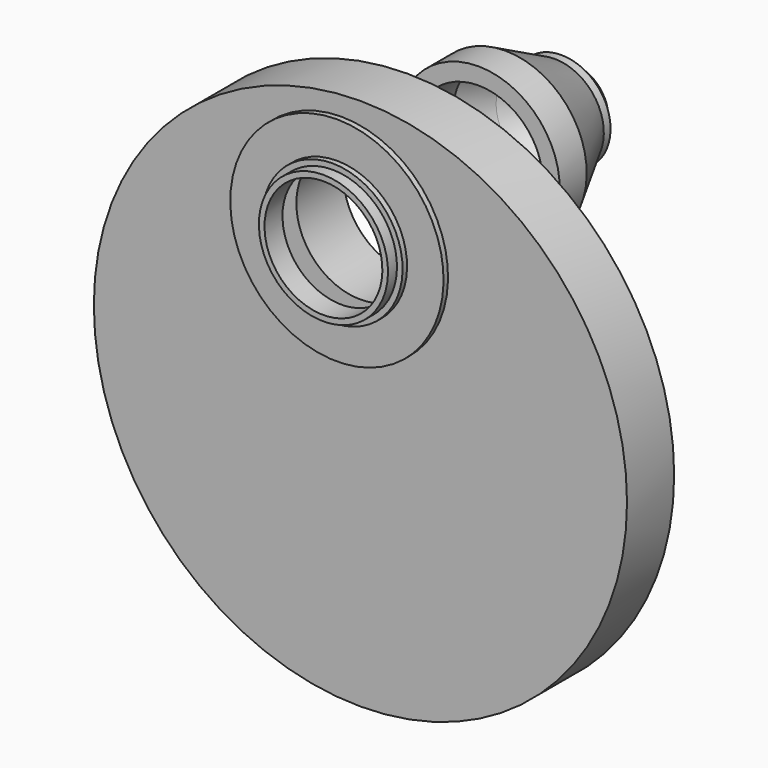
from build123d import *

# Parameters (mm, degrees)
F0_W     = 21
F0_H     = 95
F3_R     = 22.832431
F4_DEPTH = 25


with BuildPart() as f1:
    # F0 (on Right) → F1 (revolve)
    with BuildSketch(Plane.YZ):
        Polygon((-8, 21), (0, 21), (0, 38), (-2, 38), (-2, 25), (-4, 25), (-4, 23), (-8, 23), align=None)
    revolve(axis=Axis((0, -10.295414, 0), (0, 1, 0)))


with BuildPart() as f2:
    # F0 (on Right) → F2 (revolve)
    with BuildSketch(Plane.YZ):
        with Locations((18.974437, -8)):
            Rectangle(F0_W, F0_H)
    revolve(axis=Axis((0, 16.360231, -55.5), (0, 1, 0)))

    # F3 (on face) → F4 (cut)
    with BuildSketch(Plane.XZ.offset(-8.474437)):
        Circle(F3_R)
    extrude(amount=-F4_DEPTH, mode=Mode.SUBTRACT)


with BuildPart() as f5:
    # F0 (on Right) → F5 (revolve)
    with BuildSketch(Plane.YZ):
        Polygon((61.014917, 29), (61.014917, 23), (78.461014, 23), (90.077934, 16.927519), (94.793521, 11), (103.014917, 11), (103.014917, 12.75), (99.014917, 12.75), (99.014917, 14.5), (98.014917, 14.5), (98.014917, 17.5), (95.014917, 17.5), (73.014917, 29), align=None)
    revolve(axis=Axis((0, -10.295414, 0), (0, 1, 0)))


solid = Compound([f1.part, f2.part, f5.part])
